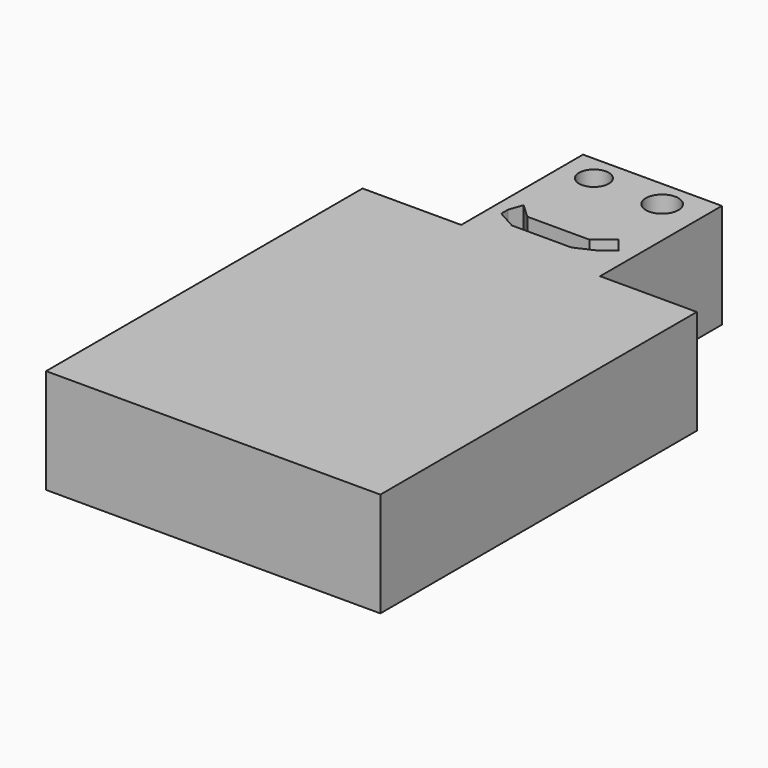
from build123d import *

# Parameters (mm, degrees)
F0_W     = 33.725146
F0_H     = 36.98137
F0_R     = 3.610724
F0_R_2   = 3.953984
F1_DEPTH = 25.4


with BuildPart() as f1:
    # F0 (on Top) → F1 (new body)
    with BuildSketch(Plane.XY):
        with Locations((-0.697762, 56.983868)):
            Rectangle(F0_W, F0_H)
        Polygon((-14.536701, 48.959609), (-13.373765, 52.215829), (-9.884956, 48.959609), (5.233213, 48.959609), (9.419782, 52.448414), (12.327118, 48.959609), (9.419782, 46.536831), (4.53545, 44.307865), (-9.884956, 44.307865), (-14.536701, 46.866324), align=None, mode=Mode.SUBTRACT)
        with Locations((-9.884956, 69.194697)):
            Circle(F0_R, mode=Mode.SUBTRACT)
        with Locations((6.861323, 68.962112)):
            Circle(F0_R_2, mode=Mode.SUBTRACT)
        Polygon((16.164811, 38.493183), (-17.560335, 38.493183), (-41.516818, 38.493183), (-41.516818, -57.565335), (39.656121, -57.565335), (39.656121, 38.493183), align=None)
    extrude(amount=F1_DEPTH)


solid = f1.part
